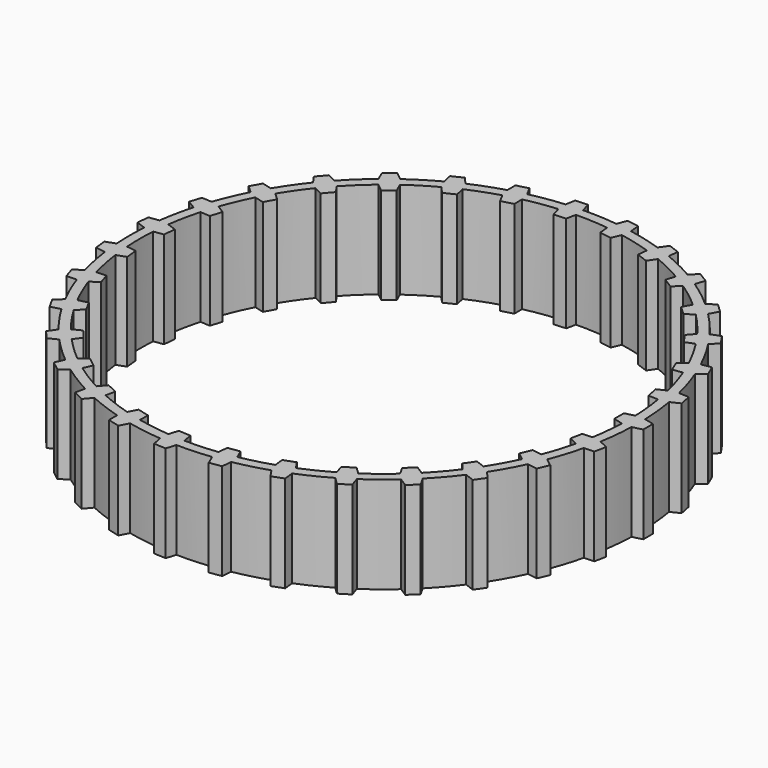
from build123d import *

# Parameters (mm, degrees)
PAD017_DEPTH   = 20
ARRAY002_COUNT = 31
SKETCH011_R    = 52.6
SKETCH011_R_2  = 50.6
PAD016_DEPTH   = 20


with BuildPart() as array002:
    # Sketch012 → Pad017 (new body)
    with BuildSketch(Plane.XY):
        Polygon((52.6, 1.75), (54.6, 1.25), (54.6, -1.25), (52.6, -1.75), (50.6, -1.75), (48.6, -1.25), (48.6, 1.25), (50.6, 1.75), align=None)
    extrude(amount=PAD017_DEPTH)

    # Array002: Array002 ×31 about axis
    array002_axis = Axis((0, 0, 0), (0, 0, 1))


with BuildPart() as array002_1:
    add(array002.part)
    for i in range(1, ARRAY002_COUNT):
        add(array002.part.rotate(array002_axis, i * 360 / ARRAY002_COUNT))


with BuildPart() as obj1:
    # Sketch011 → Pad016 (new body)
    with BuildSketch(Plane.XY):
        Circle(SKETCH011_R)
        Circle(SKETCH011_R_2, mode=Mode.SUBTRACT)
    extrude(amount=PAD016_DEPTH)

    # Fusion037: union Array002
    add(array002_1.part)


solid = obj1.part
